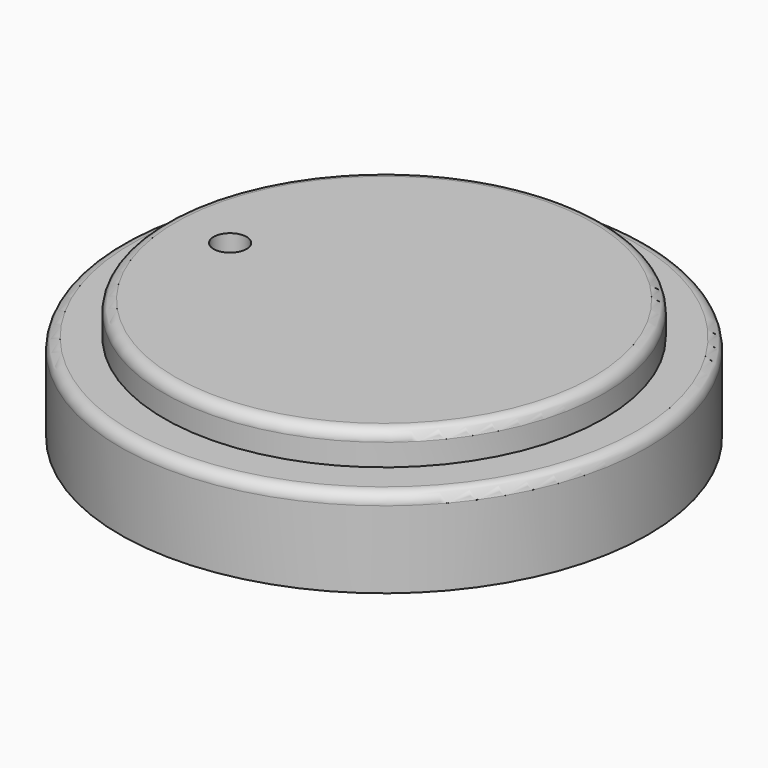
from build123d import *

# Parameters (mm, degrees)
F0_R     = 76.2
F1_DEPTH = 25.4
F2_R     = 63.5
F3_DEPTH = 9.53262
F4_R     = 3.175
F6_D     = 9.525


with BuildPart() as f1:
    # F0 (on Top) → F1 (new body)
    with BuildSketch(Plane.XY):
        Circle(F0_R)
    extrude(amount=F1_DEPTH)

    # F2 (on face) → F3 (join)
    with BuildSketch(Plane.XY.offset(25.4)):
        Circle(F2_R)
    extrude(amount=F3_DEPTH)

    # F4
    f4_edges = [f1.edges().sort_by_distance(p)[0] for p in [
        (-76.2, 0, 25.4),
        (-63.5, 0, 34.93262),
    ]]
    fillet(f4_edges, radius=F4_R)

    # F6 (through all)
    with Locations(Plane.XY.offset(34.93262)):
        with Locations((-44.45, 0)):
            Hole(F6_D / 2)


solid = f1.part
